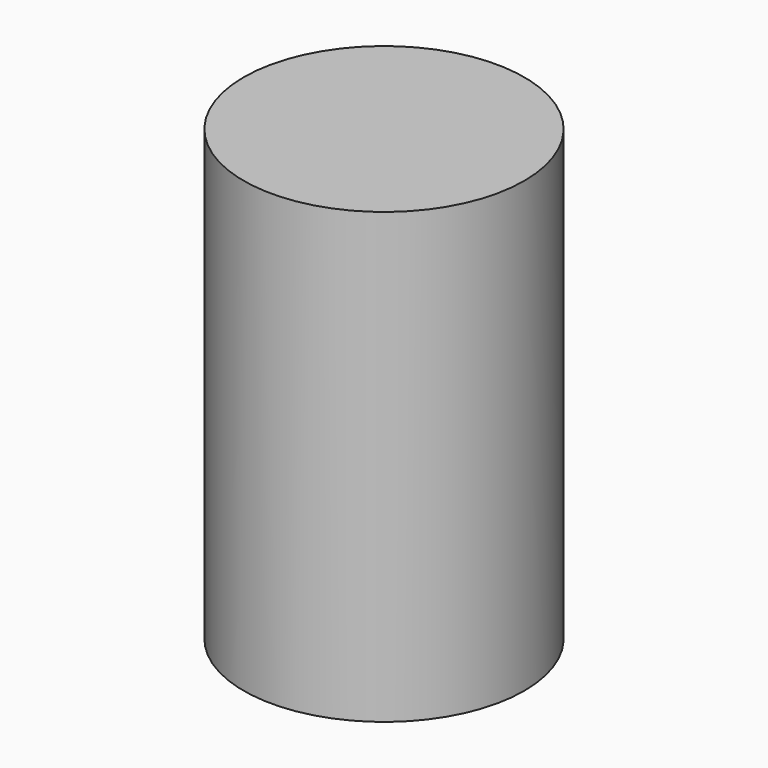
from build123d import *

# Parameters (mm, degrees)
SKETCH_R  = 7.5
PAD_DEPTH = 24


with BuildPart() as part:
    # Sketch → Pad (new body)
    with BuildSketch(Plane.XY):
        Circle(SKETCH_R)
    extrude(amount=PAD_DEPTH)


solid = part.part
